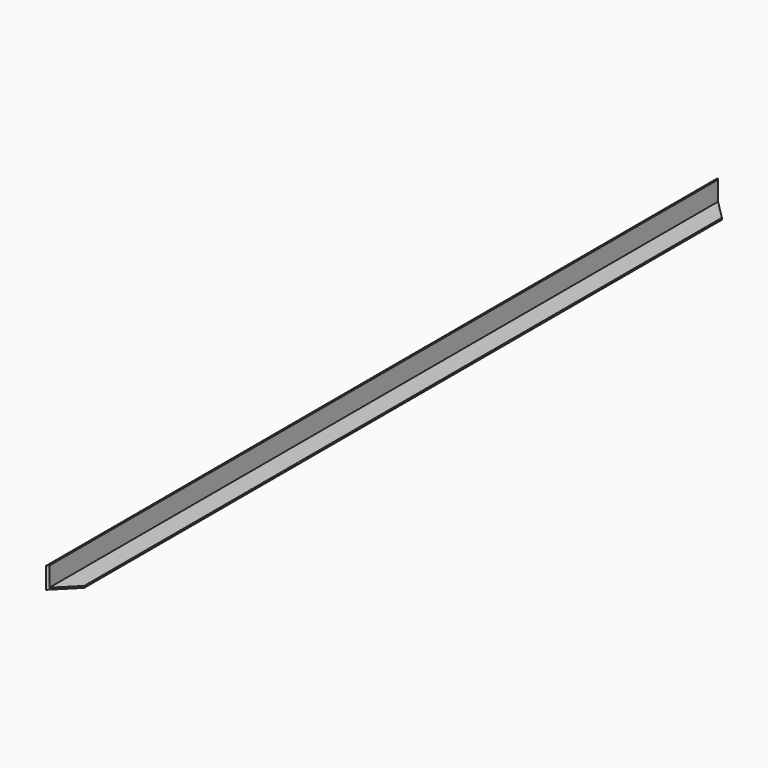
from build123d import *

# Parameters (mm, degrees)
F1_DEPTH = 1511.3
F3_DEPTH = 38.1


with BuildPart() as f1:
    # F0 (on Front) → F1 (new body)
    with BuildSketch(Plane.XZ):
        Polygon((-18.553972, 20.450408), (-21.728972, 20.450408), (-21.728972, -17.649592), (16.371028, -17.649592), (16.371028, -14.474592), (-18.553972, -14.474592), align=None)
    extrude(amount=F1_DEPTH)

    # F2 (on face) → F3 (cut)
    with BuildSketch(Plane(origin=(0, 0, -17.649592), x_dir=(1, 0, 0), z_dir=(0, 0, -1))):
        Polygon((16.371028, 1511.3), (-21.728972, 1511.3), (16.371028, 1473.2), align=None)
        Polygon((16.371028, 38.1), (-21.728972, 0), (16.371028, 0), align=None)
    extrude(amount=-F3_DEPTH, mode=Mode.SUBTRACT)


solid = f1.part
